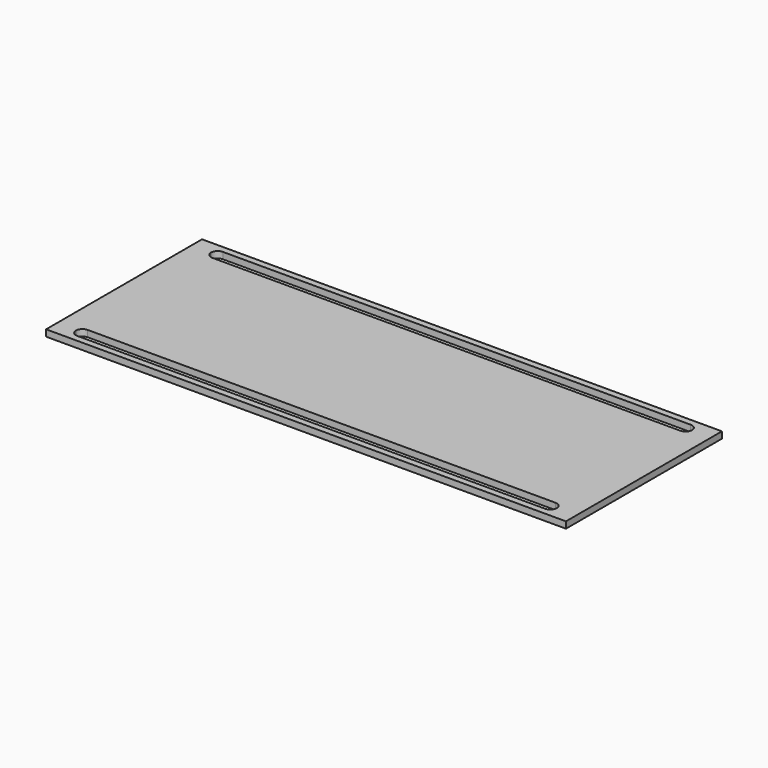
from build123d import *

# Parameters (mm, degrees)
F0_W     = 1016
F0_H     = 381
F1_DEPTH = 12.7
F3_DEPTH = 25.4


with BuildPart() as f1:
    # F0 (on Top) → F1 (new body)
    with BuildSketch(Plane.XY):
        with Locations((-452.7777122259, 169.3907021284)):
            Rectangle(F0_W, F0_H)
    extrude(amount=F1_DEPTH)

    # F2 (on face) → F3 (cut)
    with BuildSketch(Plane.XY.offset(12.7)):
        with BuildLine():
            Line((-897.2777122259, 334.4907021284), (-909.9777122259, 334.4907021284))
            Line((-909.9777122259, 334.4907021284), (-909.9777122259, 321.7907021284))
            ThreePointArc((-909.9777122259, 321.7907021284), (-900.9974561048, 325.5104460073), (-897.2777122259, 334.4907021284))
        make_face()
        with BuildLine():
            ThreePointArc((-897.2777122259, 334.4907021284), (-900.9974561048, 343.4709582495), (-909.9777122259, 347.1907021284))
            Line((-909.9777122259, 347.1907021284), (-909.9777122259, 334.4907021284))
            Line((-909.9777122259, 334.4907021284), (-897.2777122259, 334.4907021284))
        make_face()
        with BuildLine():
            Line((-909.9777122259, 334.4907021284), (-909.9777122259, 347.1907021284))
            ThreePointArc((-909.9777122259, 347.1907021284), (-918.957968347, 343.4709582495), (-922.6777122259, 334.4907021284))
            Line((-922.6777122259, 334.4907021284), (-909.9777122259, 334.4907021284))
        make_face()
        with BuildLine():
            Line((-909.9777122259, 334.4907021284), (-922.6777122259, 334.4907021284))
            ThreePointArc((-922.6777122259, 334.4907021284), (-918.957968347, 325.5104460073), (-909.9777122259, 321.7907021284))
            Line((-909.9777122259, 321.7907021284), (-909.9777122259, 334.4907021284))
        make_face()
        with BuildLine():
            Line((-8.2777122259, 334.4907021284), (-897.2777122259, 334.4907021284))
            ThreePointArc((-897.2777122259, 334.4907021284), (-900.9974561048, 325.5104460073), (-909.9777122259, 321.7907021284))
            Line((-909.9777122259, 321.7907021284), (-8.2777122259, 321.7907021284))
            Line((-8.2777122259, 321.7907021284), (-8.2777122259, 334.4907021284))
        make_face()
        with BuildLine():
            Line((4.4222877741, 347.1907021284), (-909.9777122259, 347.1907021284))
            ThreePointArc((-909.9777122259, 347.1907021284), (-900.9974561048, 343.4709582495), (-897.2777122259, 334.4907021284))
            Line((-897.2777122259, 334.4907021284), (-8.2777122259, 334.4907021284))
            ThreePointArc((-8.2777122259, 334.4907021284), (-4.557968347, 343.4709582495), (4.4222877741, 347.1907021284))
        make_face()
        with BuildLine():
            Line((-909.9777122259, 16.9907021284), (-909.9777122259, 4.2907021284))
            Line((-909.9777122259, 4.2907021284), (-897.2777122259, 4.2907021284))
            ThreePointArc((-897.2777122259, 4.2907021284), (-900.9974561048, 13.2709582495), (-909.9777122259, 16.9907021284))
        make_face()
        with BuildLine():
            ThreePointArc((-909.9777122259, 16.9907021284), (-918.957968347, 13.2709582495), (-922.6777122259, 4.2907021284))
            Line((-922.6777122259, 4.2907021284), (-909.9777122259, 4.2907021284))
            Line((-909.9777122259, 4.2907021284), (-909.9777122259, 16.9907021284))
        make_face()
        with BuildLine():
            Line((-909.9777122259, 4.2907021284), (-922.6777122259, 4.2907021284))
            ThreePointArc((-922.6777122259, 4.2907021284), (-918.957968347, -4.6895539927), (-909.9777122259, -8.4092978716))
            Line((-909.9777122259, -8.4092978716), (-909.9777122259, 4.2907021284))
        make_face()
        with BuildLine():
            Line((-897.2777122259, 4.2907021284), (-909.9777122259, 4.2907021284))
            Line((-909.9777122259, 4.2907021284), (-909.9777122259, -8.4092978716))
            ThreePointArc((-909.9777122259, -8.4092978716), (-900.9974561048, -4.6895539927), (-897.2777122259, 4.2907021284))
        make_face()
        with BuildLine():
            Line((-8.2777122259, 16.9907021284), (-909.9777122259, 16.9907021284))
            ThreePointArc((-909.9777122259, 16.9907021284), (-900.9974561048, 13.2709582495), (-897.2777122259, 4.2907021284))
            Line((-897.2777122259, 4.2907021284), (-8.2777122259, 4.2907021284))
            Line((-8.2777122259, 4.2907021284), (-8.2777122259, 16.9907021284))
        make_face()
        with BuildLine():
            ThreePointArc((-897.2777122259, 4.2907021284), (-900.9974561048, -4.6895539927), (-909.9777122259, -8.4092978716))
            Line((-909.9777122259, -8.4092978716), (4.4222877741, -8.4092978716))
            ThreePointArc((4.4222877741, -8.4092978716), (-4.557968347, -4.6895539927), (-8.2777122259, 4.2907021284))
            Line((-8.2777122259, 4.2907021284), (-897.2777122259, 4.2907021284))
        make_face()
        with BuildLine():
            Line((4.4222877741, 16.9907021284), (-8.2777122259, 16.9907021284))
            Line((-8.2777122259, 16.9907021284), (-8.2777122259, 4.2907021284))
            ThreePointArc((-8.2777122259, 4.2907021284), (-4.557968347, 13.2709582495), (4.4222877741, 16.9907021284))
        make_face()
        with BuildLine():
            ThreePointArc((-8.2777122259, 4.2907021284), (-4.557968347, -4.6895539927), (4.4222877741, -8.4092978716))
            Line((4.4222877741, -8.4092978716), (4.4222877741, 4.2907021284))
            Line((4.4222877741, 4.2907021284), (-8.2777122259, 4.2907021284))
        make_face()
        with BuildLine():
            ThreePointArc((4.4222877741, -8.4092978716), (13.4025438952, -4.6895539927), (17.1222877741, 4.2907021284))
            Line((17.1222877741, 4.2907021284), (4.4222877741, 4.2907021284))
            Line((4.4222877741, 4.2907021284), (4.4222877741, -8.4092978716))
        make_face()
        with BuildLine():
            Line((4.4222877741, 4.2907021284), (17.1222877741, 4.2907021284))
            ThreePointArc((17.1222877741, 4.2907021284), (13.4025438952, 13.2709582495), (4.4222877741, 16.9907021284))
            Line((4.4222877741, 16.9907021284), (4.4222877741, 4.2907021284))
        make_face()
        with BuildLine():
            Line((4.4222877741, 4.2907021284), (4.4222877741, 16.9907021284))
            ThreePointArc((4.4222877741, 16.9907021284), (-4.557968347, 13.2709582495), (-8.2777122259, 4.2907021284))
            Line((-8.2777122259, 4.2907021284), (4.4222877741, 4.2907021284))
        make_face()
        with BuildLine():
            ThreePointArc((4.4222877741, 321.7907021284), (-4.557968347, 325.5104460073), (-8.2777122259, 334.4907021284))
            Line((-8.2777122259, 334.4907021284), (-8.2777122259, 321.7907021284))
            Line((-8.2777122259, 321.7907021284), (4.4222877741, 321.7907021284))
        make_face()
        with BuildLine():
            Line((4.4222877741, 334.4907021284), (-8.2777122259, 334.4907021284))
            ThreePointArc((-8.2777122259, 334.4907021284), (-4.557968347, 325.5104460073), (4.4222877741, 321.7907021284))
            Line((4.4222877741, 321.7907021284), (4.4222877741, 334.4907021284))
        make_face()
        with BuildLine():
            Line((4.4222877741, 334.4907021284), (4.4222877741, 347.1907021284))
            ThreePointArc((4.4222877741, 347.1907021284), (-4.557968347, 343.4709582495), (-8.2777122259, 334.4907021284))
            Line((-8.2777122259, 334.4907021284), (4.4222877741, 334.4907021284))
        make_face()
        with BuildLine():
            ThreePointArc((17.1222877741, 334.4907021284), (13.4025438952, 343.4709582495), (4.4222877741, 347.1907021284))
            Line((4.4222877741, 347.1907021284), (4.4222877741, 334.4907021284))
            Line((4.4222877741, 334.4907021284), (17.1222877741, 334.4907021284))
        make_face()
        with BuildLine():
            Line((17.1222877741, 334.4907021284), (4.4222877741, 334.4907021284))
            Line((4.4222877741, 334.4907021284), (4.4222877741, 321.7907021284))
            ThreePointArc((4.4222877741, 321.7907021284), (13.4025438952, 325.5104460073), (17.1222877741, 334.4907021284))
        make_face()
    extrude(amount=-F3_DEPTH, mode=Mode.SUBTRACT)


solid = f1.part
